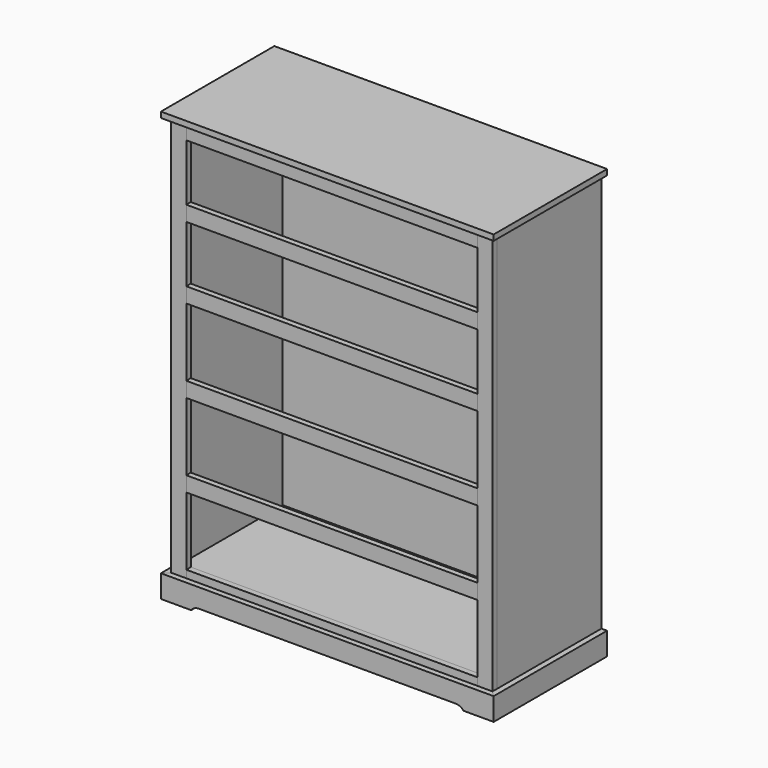
from build123d import *

# Parameters (mm, degrees)
F0_W      = 438.15
F0_H      = 1422.4
F1_DEPTH  = 19.05
F2_W      = 1060.45
F2_H      = 19.05
F3_DEPTH  = 438.15
F5_W      = 19.05
F5_H      = 1422.4
F6_DEPTH  = 438.15
F8_W      = 1060.45
F8_H      = 19.05
F9_DEPTH  = 438.15
F11_W     = 1060.45
F11_H     = 12.7
F12_DEPTH = 1422.4
F14_W     = 50.8
F14_H     = 1422.4
F15_DEPTH = 19.05
F16_W     = 50.8
F16_H     = 1422.4
F17_DEPTH = 19.05
F18_W     = 977.9
F18_H     = 50.8
F19_DEPTH = 19.05
F20_W     = 977.9
F20_H     = 50.8
F21_DEPTH = 19.05
F22_W     = 977.9
F22_H     = 50.8
F23_DEPTH = 19.05
F24_W     = 977.9
F24_H     = 50.8
F25_DEPTH = 19.05
F26_W     = 977.9
F26_H     = 50.8
F27_DEPTH = 19.05
F28_W     = 977.9
F28_H     = 50.8
F29_DEPTH = 19.05
F30_W     = 1117.6
F30_H     = 476.25
F31_DEPTH = 19.05
F33_DEPTH = 76.2
F35_DEPTH = 76.2
F37_DEPTH = 76.2
F39_DEPTH = 19.05


with BuildPart() as f1:
    # F0 (on Right) → F1 (new body)
    with BuildSketch(Plane.YZ):
        with Locations((219.075, 711.2)):
            Rectangle(F0_W, F0_H)
    extrude(amount=-F1_DEPTH)


with BuildPart() as f3:
    # F2 (on face) → F3 (new body)
    with BuildSketch(Plane.XZ):
        with Locations((-539.75, 92.075)):
            Rectangle(F2_W, F2_H)
    extrude(amount=-F3_DEPTH)


with BuildPart() as f1_1:
    add(f1.part)

    # F4: cut F3
    add(f3.part, mode=Mode.SUBTRACT)


with BuildPart() as f6:
    # F5 (on face) → F6 (new body)
    with BuildSketch(Plane.XZ):
        with Locations((-1069.975, 711.2)):
            Rectangle(F5_W, F5_H)
    extrude(amount=-F6_DEPTH)

    # F7: cut F3
    add(f3.part, mode=Mode.SUBTRACT)


with BuildPart() as f9:
    # F8 (on face) → F9 (new body)
    with BuildSketch(Plane.XZ):
        with Locations((-539.75, 1412.875)):
            Rectangle(F8_W, F8_H)
    extrude(amount=-F9_DEPTH)


with BuildPart() as f6_1:
    add(f6.part)

    # F10: cut F9
    add(f9.part, mode=Mode.SUBTRACT)


with BuildPart() as f1_2:
    add(f1_1.part)

    # F10: cut F9
    add(f9.part, mode=Mode.SUBTRACT)


with BuildPart() as f12:
    # F11 (on face) → F12 (new body)
    with BuildSketch(Plane.XY.offset(1422.4)):
        with Locations((-539.75, 431.8)):
            Rectangle(F11_W, F11_H)
    extrude(amount=-F12_DEPTH)


with BuildPart() as f6_2:
    add(f6_1.part)

    # F13: cut F12
    add(f12.part, mode=Mode.SUBTRACT)


with BuildPart() as f9_1:
    add(f9.part)

    # F13: cut F12
    add(f12.part, mode=Mode.SUBTRACT)


with BuildPart() as f1_3:
    add(f1_2.part)

    # F13: cut F12
    add(f12.part, mode=Mode.SUBTRACT)


with BuildPart() as f3_1:
    add(f3.part)

    # F13: cut F12
    add(f12.part, mode=Mode.SUBTRACT)


with BuildPart() as f15:
    # F14 (on face) → F15 (new body)
    with BuildSketch(Plane.XZ):
        with Locations((-1054.1, 711.2)):
            Rectangle(F14_W, F14_H)
    extrude(amount=F15_DEPTH)


with BuildPart() as f17:
    # F16 (on face) → F17 (new body)
    with BuildSketch(Plane.XZ):
        with Locations((-25.4, 711.2)):
            Rectangle(F16_W, F16_H)
    extrude(amount=F17_DEPTH)


with BuildPart() as f19:
    # F18 (on face) → F19 (new body)
    with BuildSketch(Plane.XZ):
        with Locations((-539.75, 76.2)):
            Rectangle(F18_W, F18_H)
    extrude(amount=F19_DEPTH)


with BuildPart() as f21:
    # F20 (on face) → F21 (new body)
    with BuildSketch(Plane.XZ):
        with Locations((-539.75, 1397)):
            Rectangle(F20_W, F20_H)
    extrude(amount=F21_DEPTH)


with BuildPart() as f23:
    # F22 (on face) → F23 (new body)
    with BuildSketch(Plane.XZ.offset(19.05)):
        with Locations((-539.75, 355.6)):
            Rectangle(F22_W, F22_H)
    extrude(amount=-F23_DEPTH)


with BuildPart() as f25:
    # F24 (on face) → F25 (new body)
    with BuildSketch(Plane.XZ.offset(19.05)):
        with Locations((-539.75, 635)):
            Rectangle(F24_W, F24_H)
    extrude(amount=-F25_DEPTH)


with BuildPart() as f27:
    # F26 (on face) → F27 (new body)
    with BuildSketch(Plane.XZ.offset(19.05)):
        with Locations((-539.75, 914.4)):
            Rectangle(F26_W, F26_H)
    extrude(amount=-F27_DEPTH)


with BuildPart() as f29:
    # F28 (on face) → F29 (new body)
    with BuildSketch(Plane.XZ.offset(19.05)):
        with Locations((-539.75, 1155.7)):
            Rectangle(F28_W, F28_H)
    extrude(amount=-F29_DEPTH)


with BuildPart() as f31:
    # F30 (on face) → F31 (new body)
    with BuildSketch(Plane.XY.offset(1422.4)):
        with Locations((-539.75, 200.025)):
            Rectangle(F30_W, F30_H)
    extrude(amount=F31_DEPTH)


with BuildPart() as f33:
    # F32 (on face) → F33 (new body)
    with BuildSketch(Plane(origin=(0, 0, 0), x_dir=(1, 0, 0), z_dir=(0, 0, -1))):
        Polygon((-1098.55, -438.15), (-1079.5, -438.15), (-1079.5, 19.05), (-1098.55, 38.1), align=None)
    extrude(amount=-F33_DEPTH)


with BuildPart() as f35:
    # F34 (on face) → F35 (new body)
    with BuildSketch(Plane(origin=(0, 0, 0), x_dir=(1, 0, 0), z_dir=(0, 0, -1))):
        Polygon((0, 19.05), (0, -438.15), (19.05, -438.15), (19.05, 38.1), align=None)
    extrude(amount=-F35_DEPTH)


with BuildPart() as f37:
    # F36 (on face) → F37 (new body)
    with BuildSketch(Plane(origin=(0, 0, 0), x_dir=(1, 0, 0), z_dir=(0, 0, -1))):
        Polygon((-1079.5, 19.05), (0, 19.05), (19.05, 38.1), (-1098.55, 38.1), align=None)
    extrude(amount=-F37_DEPTH)

    # F38 (on face) → F39 (cut)
    with BuildSketch(Plane.XZ.offset(38.1)):
        with BuildLine():
            Line((-107.95, 12.7), (-971.55, 12.7))
            ThreePointArc((-971.55, 12.7), (-985.749032, 9.348063), (-996.95, 0))
            Line((-996.95, 0), (-82.55, 0))
            ThreePointArc((-82.55, 0), (-93.750968, 9.348063), (-107.95, 12.7))
        make_face()
    extrude(amount=-F39_DEPTH, mode=Mode.SUBTRACT)


solid = Compound([f12.part, f6_2.part, f9_1.part, f1_3.part, f3_1.part, f15.part, f17.part, f19.part, f21.part, f23.part, f25.part, f27.part, f29.part, f31.part, f33.part, f35.part, f37.part])
